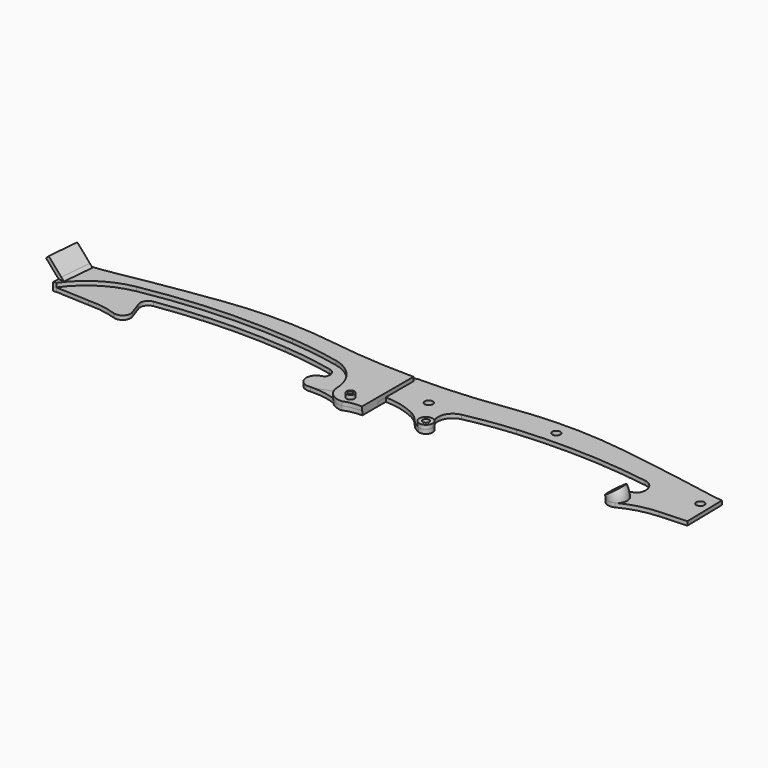
from build123d import *

# Parameters (mm, degrees)
SKETCH005_R      = 1
SKETCH005_R_2    = 0.55
PAD_DEPTH        = 1
PAD001_DEPTH     = 1
PAD002_DEPTH     = 1
PAD003_DEPTH     = 0.707
POCKET_DEPTH     = 21.2605344636
POCKET001_DEPTH  = 21.2605344636
PAD004_DEPTH     = 4.8
SKETCH009_R      = 1
PAD005_DEPTH     = 1
SKETCH010_R      = 1
SKETCH010_R_2    = 0.8
PAD006_DEPTH     = 1
SKETCH011_R      = 2.3796125114
REVOLUTION_ANGLE = -35
SKETCH012_R      = 1.102736
POCKET002_DEPTH  = 12.0850032326
SKETCH013_R      = 1.672457704
SKETCH013_R_2    = 0.8
PAD007_DEPTH     = 1


with BuildPart() as pad:
    # Sketch005 → Pad (new body)
    with BuildSketch(Plane.XY.offset(2)):
        with Locations((-4.365784, -11.4693)):
            Circle(SKETCH005_R)
        with Locations((-4.365784, -11.4693)):
            Circle(SKETCH005_R_2, mode=Mode.SUBTRACT)
    extrude(amount=PAD_DEPTH)


with BuildPart() as pad004:
    # Sketch002 → Pad001 (new body)
    with BuildSketch(Plane.XY):
        with BuildLine():
            ThreePointArc((-21.4810673527, 5.077262367), (-35.2824237225, 6.098742638), (-49.0920151852, 5.195391532))
            ThreePointArc((-49.0920151851, 5.195391532), (-61.2160997973, 3.4008059489), (-73.2935037161, 1.3150735407))
            ThreePointArc((-79, 0.5558197611), (-76.1371137421, 0.8630072719), (-73.293503716, 1.3150735407))
            Line((-79, 0.5558197611), (-79.863045, -9.645446))
            Line((-79.863045, -9.645446), (-79.097001, -9.554534))
            Line((-79.097001, -9.554534), (-70.770851, -9.9540972266))
            ThreePointArc((-63.4994527046, -11.0906652843), (-67.0873116229, -10.2163147951), (-70.770851, -9.9540972266))
            ThreePointArc((-63.4994527046, -11.0906652843), (-61.4530959676, -10.5199090608), (-61.07478, -8.429403))
            Line((-62.1352838954, -5.3236297613), (-61.07478, -8.429403))
            ThreePointArc((-60.644958831, -2.4151880117), (-62.1379756238, -3.4861982036), (-62.1352838954, -5.3236297613))
            ThreePointArc((-28.52248, -1.413958949), (-44.612817955, -0.9810036768), (-60.644958831, -2.4151880117))
            ThreePointArc((-16.1327051846, -3.2636561063), (-22.2983409455, -2.1428720386), (-28.52248, -1.413958949))
            ThreePointArc((-15.0199380454, -6.3813189746), (-14.6618963179, -4.496107664), (-16.1327051847, -3.2636561063))
            ThreePointArc((-15.0199380454, -6.3813189746), (-17.3971046924, -9.2622542342), (-14.3377180098, -11.4048840118))
            ThreePointArc((-7.9497768236, -12.3352095544), (-11.1065723822, -11.6147899689), (-14.3377180098, -11.4048840118))
            ThreePointArc((-7.9497768236, -12.3352095544), (-6.466750398, -13.4653703955), (-4.635613, -13.816891))
            ThreePointArc((-0.2000000001, -12.9959394508), (-2.4661603768, -13.1451585352), (-4.635613, -13.816891))
            Line((-0.2, -12.9959394508), (-0.2, 3.5393797871))
            ThreePointArc((-21.4810673528, 5.077262367), (-10.8679728403, 3.9286206354), (-0.2, 3.5393797871))
        make_face()
    extrude(amount=PAD001_DEPTH)

    # Sketch001 → Pad002 (new body)
    with BuildSketch(Plane.XY.offset(1)):
        with BuildLine():
            ThreePointArc((-21.610340187, 4.4591518714), (-35.3723241837, 5.4721514978), (-49.1416833232, 4.564891526))
            ThreePointArc((-49.1416833232, 4.564891526), (-61.2076256414, 2.7732562574), (-73.2271816585, 0.6930653731))
            ThreePointArc((-79, -0.0750313153), (-76.1037815418, 0.235292931), (-73.2271816587, 0.6930653731))
            Line((-79, -0.0750313153), (-79.863045, -9.645446))
            Line((-79.863045, -9.645446), (-79.097001, -9.554534))
            ThreePointArc((-65.939098349, -1.1045502089), (-73.3513683514, -4.0319389019), (-79.097001, -9.554534))
            ThreePointArc((-28.5224800001, 0.684653), (-47.2906442147, 1.0417667868), (-65.939098349, -1.1045502088))
            ThreePointArc((-16.2777656119, -1.1365507335), (-22.3719677016, -0.0366503249), (-28.52248, 0.684653))
            ThreePointArc((-8.9207948272, -9.9231462247), (-11.0840165369, -4.2611260649), (-16.2777656119, -1.1365507335))
            ThreePointArc((-8.9207948272, -9.9231462247), (-7.6017918075, -12.7764015624), (-4.635613, -13.816891))
            ThreePointArc((-0.2, -13.1038370526), (-2.4597541717, -13.1994249509), (-4.635613, -13.816891))
            Line((-0.2, -13.1038370526), (-0.2, 2.9258207519))
            ThreePointArc((-21.610340187, 4.4591518714), (-10.9326350171, 3.3089857429), (-0.2, 2.9258207519))
        make_face()
    extrude(amount=PAD002_DEPTH)

    # Sketch006 → Pad003 (new body)
    with BuildSketch(Plane.XY.offset(2)):
        Polygon((-79, -0.0750313153), (-77.586, -0.2025436196), (-78.3074274645, -8.2025436196), (-79.7214274645, -8.0750313153), align=None)
    extrude(amount=PAD003_DEPTH)

    # Sketch → Pocket (cut, through all)
    with BuildSketch(Plane(origin=(-1.3653966504, -15.1410553949, 0), x_dir=(0.9959585577, -0.0898139821, 0), z_dir=(-0.0898139821, -0.9959585577, 0))):
        Polygon((-78.6739871955, 2), (-78.6739871955, 2.707), (-77.9641183013, 2.707), align=None)
    extrude(amount=-POCKET_DEPTH, mode=Mode.SUBTRACT)

    # Sketch007 → Pocket001 (cut, through all)
    with BuildSketch(Plane(origin=(-1.3653966504, -15.1410553949, 0), x_dir=(0.9959585577, -0.0898139821, 0), z_dir=(-0.0898139821, -0.9959585577, 0))):
        Polygon((-77.9641183013, 2.707), (-77.2542494071, 2.707), (-77.2542494071, 2), align=None)
    extrude(amount=-POCKET001_DEPTH, mode=Mode.SUBTRACT)

    # Sketch008 → Pad004 (new body)
    with BuildSketch(Plane(origin=(-40.015310159, 3.6085179686, 40.3407206551), x_dir=(0.7113661132, 0.0626180815, 0.7000265916), z_dir=(-0.7028216367, 0.0633793539, 0.7085370876))):
        Polygon((-54.802568073, -0.2529234583), (-53.8087057187, -0.3794164131), (-54.8228494221, -8.3476012839), (-55.8167117765, -8.2211083291), align=None)
    extrude(amount=PAD004_DEPTH)


with BuildPart() as pad005:
    # Sketch009 → Pad005 (new body)
    with BuildSketch(Plane.XY):
        with BuildLine():
            ThreePointArc((-21.4310662567, 5.6086986839), (-35.4243377986, 6.6429844504), (-49.4243020267, 5.7036245056))
            ThreePointArc((-49.4243020269, 5.7036245055), (-61.6877693469, 3.8558307387), (-73.9026551863, 1.7102454008))
            ThreePointArc((-79, 1.0050715738), (-76.4427623579, 1.2957447355), (-73.9026551861, 1.7102454008))
            Line((-79, 1.0050715738), (-79.863045, -9.645446))
            Line((-79.863045, -9.645446), (-79.097001, -9.554534))
            Line((-79.097001, -9.554534), (-70.770851, -9.9540972266))
            ThreePointArc((-63.4994527046, -11.0906652843), (-67.0873116229, -10.2163147951), (-70.770851, -9.9540972266))
            ThreePointArc((-63.4994527046, -11.0906652843), (-61.4530959676, -10.5199090608), (-61.07478, -8.429403))
            Line((-62.133349891, -5.3242944908), (-61.07478, -8.429403))
            ThreePointArc((-60.6452498247, -2.4269337056), (-62.1324613439, -3.4939223661), (-62.133349891, -5.3242944908))
            ThreePointArc((-28.52248, -1.3964934559), (-44.6138541668, -0.9768336422), (-60.6452498247, -2.4269337057))
            ThreePointArc((-16.1270822695, -3.2358295285), (-22.2957565763, -2.1205632265), (-28.52248, -1.3964934559))
            ThreePointArc((-15.0160989785, -6.3806475729), (-14.6478238252, -4.4818955116), (-16.1270822694, -3.2358295285))
            ThreePointArc((-15.0160989785, -6.3806475729), (-17.3773112473, -9.2573787763), (-14.337718, -11.404884))
            ThreePointArc((-14.337718, -11.404884), (-13.0705043183, -11.1204414307), (-11.811995, -10.799673))
            ThreePointArc((-0.2, -8.1355406262), (-6.1226161929, -8.9593078665), (-11.811995, -10.799673))
            Line((-0.2, -8.1355406262), (-0.2, 4.0589408275))
            ThreePointArc((-21.4310662567, 5.6086986839), (-10.8431697555, 4.4552089551), (-0.2, 4.0589408275))
        make_face()
        with Locations((-8.170898, -2.26972)):
            Circle(SKETCH009_R, mode=Mode.SUBTRACT)
        with Locations((-75.916771, -2.453812)):
            Circle(SKETCH009_R, mode=Mode.SUBTRACT)
        with Locations((-35.508564, 3.253041)):
            Circle(SKETCH009_R, mode=Mode.SUBTRACT)
    extrude(amount=PAD005_DEPTH)


with BuildPart() as pad007:
    # Sketch010 → Pad006 (new body)
    with BuildSketch(Plane.XY):
        with BuildLine():
            ThreePointArc((-21.435493651, 5.757696159), (-35.4582882573, 6.7981102018), (-49.4881632007, 5.8579830687))
            ThreePointArc((-49.4881632006, 5.8579830687), (-61.718455406, 4.015524336), (-73.9004550198, 1.8769296985))
            ThreePointArc((-78.3434632234, 1.2350482005), (-76.1151484666, 1.5088466087), (-73.9004550199, 1.8769296985))
            Line((-78.3434632234, 1.2350482005), (-78.5636877074, -9.7715598515))
            Line((-78.5636877074, -9.7715598515), (-71.801214619, -10.1231896088))
            ThreePointArc((-62.7669622235, -12.5141161806), (-67.160053087, -10.8499783113), (-71.801214619, -10.1231896088))
            ThreePointArc((-62.7669622235, -12.5141161806), (-59.6408045973, -11.5822685042), (-60.3821667007, -8.4055431733))
            Line((-63.7353699368, -6.1781112542), (-60.3821667007, -8.4055431733))
            ThreePointArc((-61.4420848408, -1.5658707162), (-63.7817534342, -3.2787979749), (-63.7353699368, -6.1781112542))
            ThreePointArc((-28.5224799999, -0.3948032227), (-45.0171592764, 7.81848e-05), (-61.4420848408, -1.5658707162))
            ThreePointArc((-16.2231821186, -2.1993471053), (-22.3447385085, -1.1056037047), (-28.52248, -0.3948032226))
            ThreePointArc((-14.7241105649, -8.7327813805), (-13.385946369, -4.9870494537), (-16.2231821186, -2.1993471053))
            ThreePointArc((-14.7241105649, -8.7327813804), (-15.143857865, -10.8990505381), (-13.050296142, -11.5961223932))
            ThreePointArc((-13.050296142, -11.5961223932), (-11.7378486458, -10.8325481749), (-10.6614169513, -9.7616332276))
            ThreePointArc((-7.8098214017, -7.4699147616), (-9.3701903652, -8.4483264619), (-10.6614169513, -9.7616332276))
            ThreePointArc((-0.2, -5.6780658726), (-4.1001931215, -6.169334429), (-7.8098214017, -7.4699147616))
            Line((-0.2, -5.6780658726), (-0.2, 4.2006905502))
            ThreePointArc((-21.435493651, 5.757696159), (-10.8455327461, 4.6002302106), (-0.2000000001, 4.2006905502))
        make_face()
        with Locations((-8.170898, -2.26972)):
            Circle(SKETCH010_R, mode=Mode.SUBTRACT)
        with Locations((-75.916771, -2.453812)):
            Circle(SKETCH010_R, mode=Mode.SUBTRACT)
        with Locations((-35.508564, 3.253041)):
            Circle(SKETCH010_R, mode=Mode.SUBTRACT)
        with Locations((-13.7, -10.055019)):
            Circle(SKETCH010_R_2, mode=Mode.SUBTRACT)
    extrude(amount=PAD006_DEPTH)

    # Sketch011 → Revolution (revolve)
    with BuildSketch(Plane.XY.offset(1)):
        with Locations((-61.6988471699, -10.387690556)):
            Circle(SKETCH011_R)
    revolve(axis=Axis((-58.924019, -5.544946, 1), (0, -1, 0)), revolution_arc=REVOLUTION_ANGLE)

    # Sketch012 → Pocket002 (cut, through all)
    with BuildSketch(Plane(origin=(-18.9155624778, 0, -27.014222849), x_dir=(0.8191520443, 0, -0.5735764364), z_dir=(0.5735764364, 0, 0.8191520443))):
        with Locations((-51.6161352278, -10.387690556)):
            Circle(SKETCH012_R)
    extrude(amount=-POCKET002_DEPTH, mode=Mode.SUBTRACT)

    # Sketch013 → Pad007 (new body)
    with BuildSketch(Plane.XY.offset(1)):
        with Locations((-13.7, -10.055019)):
            Circle(SKETCH013_R)
        with Locations((-13.7, -10.055019)):
            Circle(SKETCH013_R_2, mode=Mode.SUBTRACT)
    extrude(amount=PAD007_DEPTH)


with BuildPart() as part_mirroring:
    # Part__Mirroring: instance of Pad007
    add(pad007.part.mirror(Plane(origin=(-0.2, 0, 0), x_dir=(0, -1, 0), z_dir=(1, 0, 0))))


solid = Compound([pad.part, pad004.part, pad005.part, part_mirroring.part])
